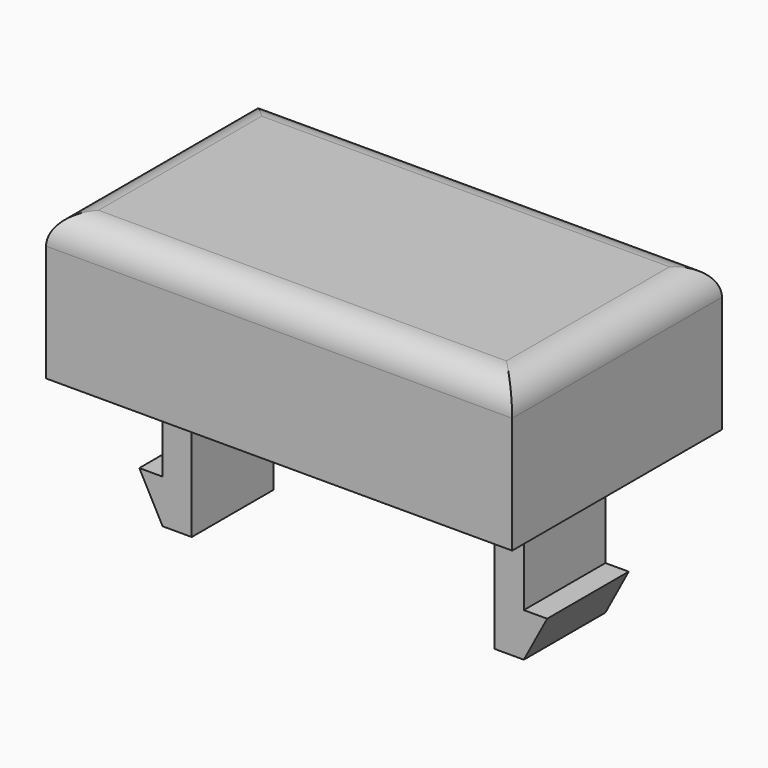
from build123d import *

# Parameters (mm, degrees)
SKETCH036_W     = 16
SKETCH036_H     = 9
PAD021_DEPTH    = 5
SKETCH037_W     = 14.4
SKETCH037_H     = 7.4
POCKET013_DEPTH = 4
SKETCH038_W     = 1
SKETCH038_H     = 3.5
PAD022_DEPTH    = 9
PAD023_DEPTH    = 3.5
SKETCH041_R     = 1
PAD025_DEPTH    = 3.4
FILLET002_R     = 1
FILLET007_R     = 0.7
FILLET011_R     = 0.8


with BuildPart() as part:
    # Sketch036 → Pad021 (new body)
    with BuildSketch(Plane.XY):
        Rectangle(SKETCH036_W, SKETCH036_H)
    extrude(amount=PAD021_DEPTH)

    # Sketch037 (on Face5 of Pad021) → Pocket013 (cut)
    with BuildSketch(Plane(origin=(0, 0, 0), x_dir=(1, 0, 0), z_dir=(0, 0, -1))):
        Rectangle(SKETCH037_W, SKETCH037_H)
    extrude(amount=-POCKET013_DEPTH, mode=Mode.SUBTRACT)

    # Sketch038 (on Face11 of Pocket013) → Pad022 (join)
    with BuildSketch(Plane(origin=(0, 0, 4), x_dir=(1, 0, 0), z_dir=(0, 0, -1))):
        with Locations((-5.7, 0)):
            Rectangle(SKETCH038_W, SKETCH038_H)
        with Locations((5.7, 0)):
            Rectangle(SKETCH038_W, SKETCH038_H)
    extrude(amount=PAD022_DEPTH)

    # Sketch039 (on Face17 of Pad022) → Pad023 (join)
    with BuildSketch(Plane(origin=(0, 1.75, 0), x_dir=(-1, 0, 0), z_dir=(0, 1, 0))):
        Polygon((-6.2, -3.5), (-7, -3.5), (-6.2, -5), align=None)
        Polygon((6.2, -3.5), (7, -3.5), (6.2, -5), align=None)
    extrude(amount=-PAD023_DEPTH)

    # Sketch041 (on Face11 of Pad023) → Pad025 (join)
    with BuildSketch(Plane(origin=(0, 0, 4), x_dir=(1, 0, 0), z_dir=(0, 0, -1))):
        Circle(SKETCH041_R)
    extrude(amount=PAD025_DEPTH)

    # Fillet002
    fillet002_edges = [part.edges().sort_by_distance(p)[0] for p in [
        (0, 4.5, 5),
        (-8, 0, 5),
        (0, -4.5, 5),
        (8, 0, 5),
    ]]
    fillet(fillet002_edges, radius=FILLET002_R)

    # Fillet007
    fillet007_edges = [part.edges().sort_by_distance(p)[0] for p in [
        (-1, 0, 4),
    ]]
    fillet(fillet007_edges, radius=FILLET007_R)

    # Fillet011
    fillet011_edges = [part.edges().sort_by_distance(p)[0] for p in [
        (5.2, 0, 4),
        (5.7, 1.75, 4),
        (6.2, 0, 4),
        (5.7, -1.75, 4),
        (-5.7, -1.75, 4),
        (-6.2, 0, 4),
        (-5.2, 0, 4),
        (-5.7, 1.75, 4),
    ]]
    fillet(fillet011_edges, radius=FILLET011_R)


with BuildPart() as part_1:
    # Body008 placement: moved
    add(part.part.moved(Location((-33, -44, 15))))


with BuildPart() as part_2:
    # Clone placement: moved
    add(part_1.part.moved(Location((33, 0, 4))))


with BuildPart() as part_3:
    # Body009 placement: moved
    add(part_2.part.moved(Location((-16, 0, -4))))


solid = part_3.part
